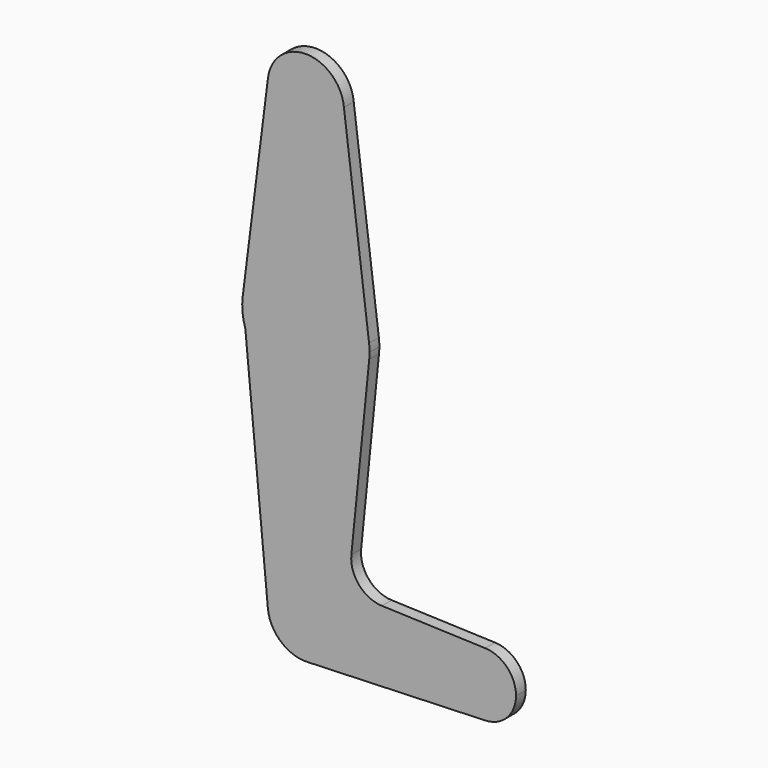
from build123d import *

# Parameters (mm, degrees)
F0_R     = 1.5875
F1_DEPTH = 3.048


with BuildPart() as f1:
    # F0 (on Front) → F1 (new body)
    with BuildSketch(Plane.XZ):
        with BuildLine():
            Line((-15.100703, 30.326465), (-15.750488, 37.208226))
            ThreePointArc((-15.750488, 37.208226), (-15.804704, 33.731549), (-15.100703, 30.326465))
        make_face()
        with BuildLine():
            ThreePointArc((-9.450293, 87.214476), (-0.596483, 76.517546), (9.525, 86.023851))
            ThreePointArc((9.525, 86.023851), (9.514734, 86.465966), (9.483957, 86.907129))
            ThreePointArc((9.483957, 86.907129), (0.154593, 95.547596), (-9.450293, 87.214476))
        make_face()
        with Locations((0, 86.023851)):
            Circle(F0_R, mode=Mode.SUBTRACT)
        with BuildLine():
            ThreePointArc((9.525, -28.276149), (-0.448187, -18.761699), (-9.482822, -29.17153))
            ThreePointArc((-9.482822, -29.17153), (-6.283976, -35.434171), (0.340179, -37.795073))
            ThreePointArc((0.340179, -37.795073), (6.854408, -34.889977), (9.525, -28.276149))
        make_face()
        with Locations((0, -28.276149)):
            Circle(F0_R, mode=Mode.SUBTRACT)
        with BuildLine():
            ThreePointArc((44.733482, -20.343713), (36.5125, -28.276149), (44.733482, -36.208585))
            ThreePointArc((44.733482, -36.208585), (50.162007, -33.787672), (52.3875, -28.276149))
            ThreePointArc((52.3875, -28.276149), (50.162007, -22.764626), (44.733482, -20.343713))
        make_face()
        with Locations((44.45, -28.276149)):
            Circle(F0_R, mode=Mode.SUBTRACT)
        with BuildLine():
            ThreePointArc((9.483957, 86.907129), (9.514734, 86.465966), (9.525, 86.023851))
            ThreePointArc((9.525, 86.023851), (-0.596483, 76.517546), (-9.450293, 87.214476))
            Line((-9.450293, 87.214476), (-15.750488, 37.208226))
            ThreePointArc((-15.750488, 37.208226), (-0.000795, 51.098851), (15.750289, 37.209804))
            Line((15.750289, 37.209804), (9.483957, 86.907129))
        make_face()
        with Locations((-6.508044, 71.749051)):
            Circle(F0_R, mode=Mode.SUBTRACT)
        with BuildLine():
            ThreePointArc((15.795426, 33.636351), (1.691005, 19.439171), (-15.100703, 30.326465))
            Line((-15.100703, 30.326465), (-9.482822, -29.17153))
            ThreePointArc((-9.482822, -29.17153), (-0.448187, -18.761699), (9.525, -28.276149))
            ThreePointArc((9.525, -28.276149), (6.854408, -34.889977), (0.340179, -37.795073))
            Line((0.340179, -37.795073), (44.733482, -36.208585))
            ThreePointArc((44.733482, -36.208585), (36.5125, -28.276149), (44.733482, -20.343713))
            Line((44.733482, -20.343713), (18.9676, -19.422915))
            ThreePointArc((18.9676, -19.422915), (13.2612, -16.70479), (11.341187, -10.682767))
            Line((11.341187, -10.682767), (15.795426, 33.636351))
        make_face()
        with BuildLine():
            ThreePointArc((15.875, 35.223851), (15.843792, 36.218783), (15.750289, 37.209804))
            ThreePointArc((15.750289, 37.209804), (-0.000795, 51.098851), (-15.750488, 37.208226))
            Line((-15.750488, 37.208226), (-15.100703, 30.326465))
            ThreePointArc((-15.100703, 30.326465), (1.691005, 19.439171), (15.795426, 33.636351))
            ThreePointArc((15.795426, 33.636351), (15.855094, 34.429104), (15.875, 35.223851))
        make_face()
        with Locations((0, 35.223851)):
            Circle(F0_R, mode=Mode.SUBTRACT)
        with Locations((-6.508044, 71.749051)):
            Circle(F0_R)
        with Locations((0, 35.223851)):
            Circle(F0_R)
        with Locations((0, 86.023851)):
            Circle(F0_R)
        with Locations((44.45, -28.276149)):
            Circle(F0_R)
        with Locations((0, -28.276149)):
            Circle(F0_R)
    extrude(amount=F1_DEPTH)


solid = f1.part
